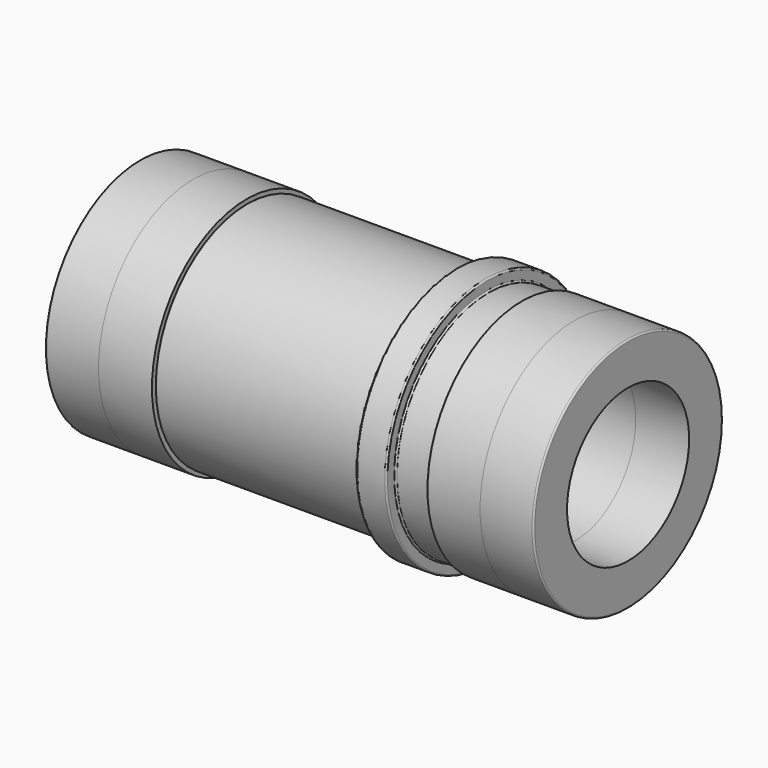
from build123d import *

# Parameters (mm, degrees)
F0_R     = 15
F0_R_2   = 14
F1_DEPTH = 36
F2_R     = 15.5
F2_R_2   = 10
F3_DEPTH = 7
F7_W     = 4
F7_H     = 1.5
F9_R     = 0.2
F9_2_R   = 0.2
F9_3_R   = 0.2
F9_4_R   = 0.2


with BuildPart() as f1:
    # F0 (on Right) → F1 (new body)
    with BuildSketch(Plane.YZ):
        Circle(F0_R)
        Circle(F0_R_2, mode=Mode.SUBTRACT)
    extrude(amount=F1_DEPTH)

    # F7 (on Front) → F8 (revolve)
    with BuildSketch(Plane.XZ):
        with Locations((29.5, 15.75)):
            Rectangle(F7_W, F7_H)
    revolve(axis=Axis((0, 0, 0), (-1, 0, 0)))

    # F9#4
    f9_4_edges = [f1.edges().sort_by_distance(p)[0] for p in [
        (0, -15, 0),
        (31.5, 0, -16.5),
        (27.5, 0, -16.5),
        (27.5, -15, 0),
        (31.5, -15, 0),
    ]]
    fillet(f9_4_edges, radius=F9_4_R)


with BuildPart() as f3:
    # F2 (on Right) → F3 (new body)
    with BuildSketch(Plane.YZ):
        Circle(F2_R)
        Circle(F2_R_2, mode=Mode.SUBTRACT)
    extrude(amount=-F3_DEPTH)


with BuildPart() as f4_1:
    # F4: instance of F3
    add(f3.part.mirror(Plane(origin=(-7, 0, 0), x_dir=(0, 1, 0), z_dir=(-1, 0, 0))))


with BuildPart() as f5_1:
    # F5: instance of F3
    add(f3.part.mirror(Plane.YZ.offset(36)))


with BuildPart() as f5_2:
    # F5: instance of F4_1
    add(f4_1.part.mirror(Plane.YZ.offset(36)))


with BuildPart() as f5_1_1:
    # F6: moved
    add(f5_1.part.moved(Location((-36, 0, 0))))

    # F9#2
    f9_2_edges = [f5_1_1.edges().sort_by_distance(p)[0] for p in [
        (36, -15.5, 0),
    ]]
    fillet(f9_2_edges, radius=F9_2_R)


with BuildPart() as f5_2_1:
    # F6: moved
    add(f5_2.part.moved(Location((-36, 0, 0))))

    # F9
    f9_edges = [f5_2_1.edges().sort_by_distance(p)[0] for p in [
        (50, -15.5, 0),
    ]]
    fillet(f9_edges, radius=F9_R)


with BuildPart() as f4_1_1:
    add(f4_1.part)

    # F9#3
    f9_3_edges = [f4_1_1.edges().sort_by_distance(p)[0] for p in [
        (-14, -15.5, 0),
    ]]
    fillet(f9_3_edges, radius=F9_3_R)


solid = Compound([f1.part, f3.part, f5_1_1.part, f5_2_1.part, f4_1_1.part])
